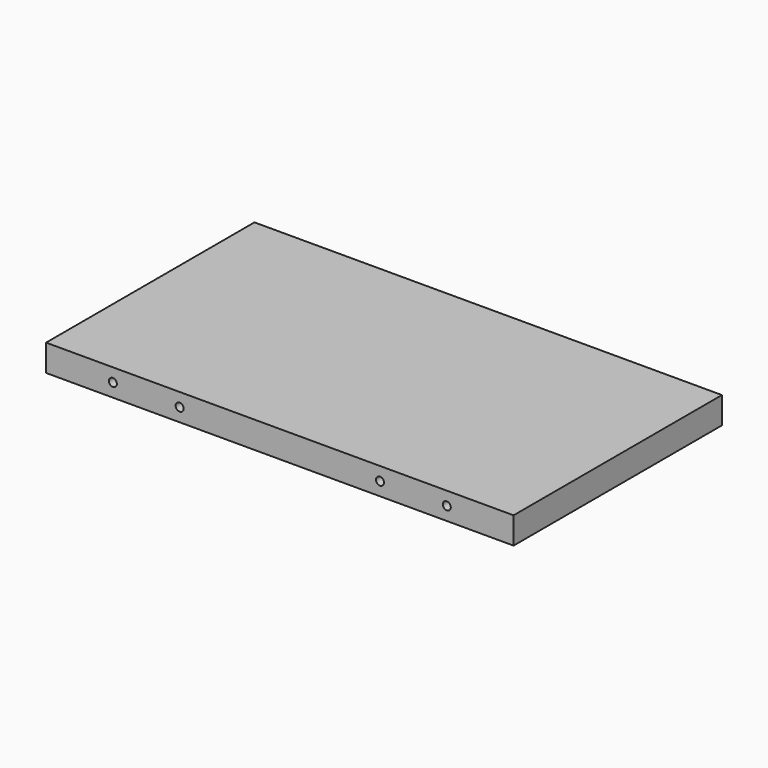
from build123d import *

# Parameters (mm, degrees)
F0_W     = 350
F0_H     = 195
F1_DEPTH = 10
F3_D     = 6
F5_D     = 3.5
F5_DEPTH = 5
F5_TIP   = 1.0515060833


with BuildPart() as f1:
    # F0 (on Top) → F1 (new body, symmetric)
    with BuildSketch(Plane.XY):
        Rectangle(F0_W, F0_H)
    extrude(amount=F1_DEPTH, both=True)

    # F3 (through all)
    with Locations(Plane.XZ.offset(97.5)):
        with Locations((-125, 0), (-75, 0), (75, 0), (125, 0)):
            Hole(F3_D / 2)

    # F5
    with Locations(Plane(origin=(0, 0, -10), x_dir=(1, 0, 0), z_dir=(0, 0, -1))):
        with Locations((-49, 5), (-49, -5), (-39, 0), (65, 5), (65, -5), (75, 0)):
            Hole(F5_D / 2, depth=F5_DEPTH)
            with Locations((0, 0, -(F5_DEPTH + F5_TIP / 2))):  # 118° drill point
                Cone(0, F5_D / 2, F5_TIP, mode=Mode.SUBTRACT)


solid = f1.part
